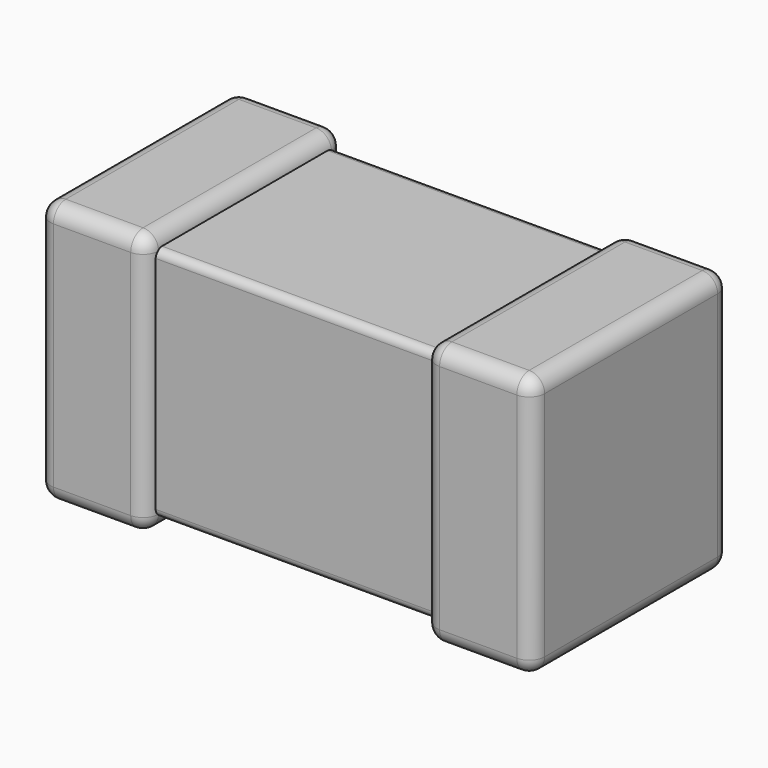
from build123d import *

# Parameters (mm, degrees)
SKETCH_W     = 1.44
SKETCH_H     = 0.72
PAD_DEPTH    = 0.765
FILLET002_R  = 0.025
SKETCH001_W  = 0.35
SKETCH001_H  = 0.85
PAD001_DEPTH = 0.4
FILLET_R     = 0.05
SKETCH002_W  = 0.35
SKETCH002_H  = 0.85
PAD002_DEPTH = 0.4
FILLET001_R  = 0.05


with BuildPart() as body:
    # Sketch → Pad (new body)
    with BuildSketch(Plane.XY.offset(0.0425)):
        Rectangle(SKETCH_W, SKETCH_H)
    extrude(amount=PAD_DEPTH)

    # Fillet002
    fillet002_edges = [body.edges().sort_by_distance(p)[0] for p in [
        (0, -0.36, 0.8075),
        (0, 0.36, 0.8075),
        (0, -0.36, 0.0425),
        (0, 0.36, 0.0425),
    ]]
    fillet(fillet002_edges, radius=FILLET002_R)


with BuildPart() as body001:
    # Sketch001 → Pad001 (new body, symmetric)
    with BuildSketch(Plane.XZ):
        with Locations((-0.625, 0.425)):
            Rectangle(SKETCH001_W, SKETCH001_H)
    extrude(amount=PAD001_DEPTH, both=True)

    # Fillet
    fillet_edges = [body001.edges().sort_by_distance(p)[0] for p in [
        (-0.8, 0, 0.85),
        (-0.8, 0.4, 0.425),
        (-0.625, 0.4, 0.85),
        (-0.45, 0.4, 0.425),
        (-0.625, 0.4, 0),
        (-0.45, 0, 0),
        (-0.8, 0, 0),
        (-0.8, -0.4, 0.425),
        (-0.625, -0.4, 0),
        (-0.45, -0.4, 0.425),
        (-0.625, -0.4, 0.85),
        (-0.45, 0, 0.85),
    ]]
    fillet(fillet_edges, radius=FILLET_R)


with BuildPart() as body002:
    # Sketch002 → Pad002 (new body, symmetric)
    with BuildSketch(Plane.XZ):
        with Locations((0.625, 0.425)):
            Rectangle(SKETCH002_W, SKETCH002_H)
    extrude(amount=PAD002_DEPTH, both=True)

    # Fillet001
    fillet001_edges = [body002.edges().sort_by_distance(p)[0] for p in [
        (0.8, 0, 0),
        (0.8, 0.4, 0.425),
        (0.8, -0.4, 0.425),
        (0.8, 0, 0.85),
        (0.625, -0.4, 0.85),
        (0.625, 0.4, 0.85),
        (0.45, 0, 0.85),
        (0.45, -0.4, 0.425),
        (0.625, -0.4, 0),
        (0.45, 0, 0),
        (0.45, 0.4, 0.425),
        (0.625, 0.4, 0),
    ]]
    fillet(fillet001_edges, radius=FILLET001_R)


solid = Compound([body.part, body001.part, body002.part])
